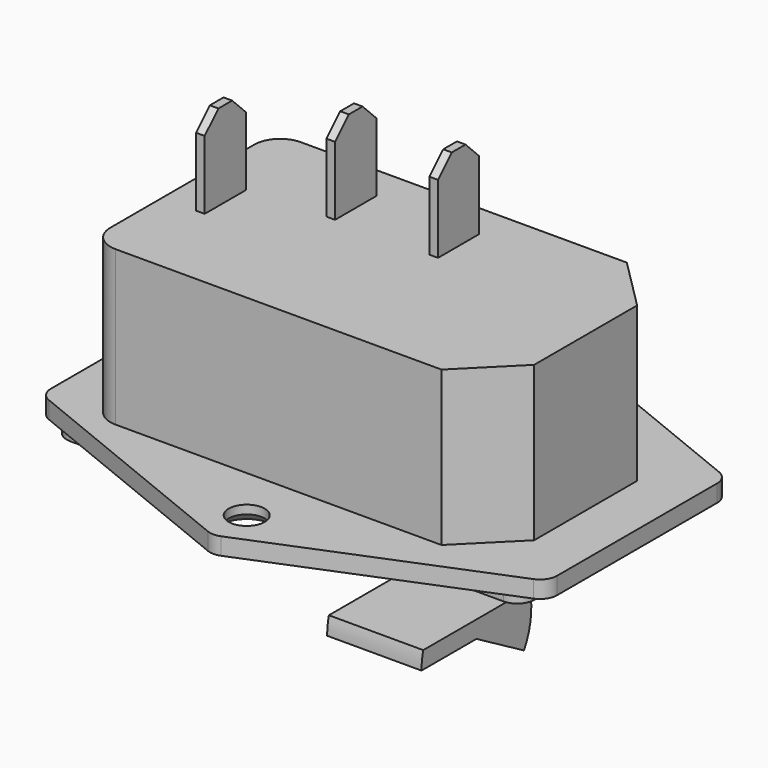
from build123d import *

# Parameters (mm, degrees)
PAD_DEPTH                  = 18
PAD001_DEPTH               = 2
FILLET_R                   = 2
FILLET001_R                = 3
SKETCH002_R                = 2.1
POCKET_DEPTH               = 5
CHAMFER_SIZE               = 1
PAD002_DEPTH               = 1
POCKET001_DEPTH            = 20
PAD003_DEPTH               = 11
SKETCH006_W                = 4
SKETCH006_H                = 2
EXTRUDE_SKETCH006001_DEPTH = 20
CHAMFER001_SIZE            = 1.2
SKETCH007_W                = 1
SKETCH007_H                = 6
EXTRUDE_SKETCH007_DEPTH    = 10
CHAMFER002_SIZE            = 2


with BuildPart() as pocket001:
    # Sketch → Pad (new body)
    with BuildSketch(Plane.XY):
        Polygon((-21.601505, 12.791464), (19.398495, 12.791464), (25.398495, 6.791464), (25.398495, -8.208536), (19.398495, -14.208536), (-21.601505, -14.208536), align=None)
    extrude(amount=PAD_DEPTH)

    # Sketch001 → Pad001 (new body)
    with BuildSketch(Plane(origin=(0, 0, 0), x_dir=(1, 0, 0), z_dir=(0, 0, -1))):
        Polygon((1.898495, 25.708536), (-27.601505, 13.708536), (-27.601505, -12.291464), (1.898495, -24.291464), (31.398495, -12.291464), (31.398495, 13.708536), align=None)
    extrude(amount=PAD001_DEPTH)

    # Fillet
    fillet_edges = [pocket001.edges().sort_by_distance(p)[0] for p in [
        (1.898495, -25.708536, -1),
        (31.398495, -13.708536, -1),
        (-27.601505, -13.708536, -1),
        (-27.601505, 12.291464, -1),
        (1.898495, 24.291464, -1),
        (31.398495, 12.291464, -1),
    ]]
    fillet(fillet_edges, radius=FILLET_R)

    # Fillet001
    fillet001_edges = [pocket001.edges().sort_by_distance(p)[0] for p in [
        (-21.601505, 12.791464, 9),
        (-21.601505, -14.208536, 9),
    ]]
    fillet(fillet001_edges, radius=FILLET001_R)

    # Sketch002 → Pocket (cut)
    with BuildSketch(Plane(origin=(0, 0, -2), x_dir=(1, 0, 0), z_dir=(0, 0, -1))):
        with Locations((1.898495, 20.708536)):
            Circle(SKETCH002_R)
        with Locations((1.898495, -19.291464)):
            Circle(SKETCH002_R)
    extrude(amount=-POCKET_DEPTH, mode=Mode.SUBTRACT)

    # Chamfer
    chamfer_edges = [pocket001.edges().sort_by_distance(p)[0] for p in [
        (-0.201505, -20.708536, -2),
        (-0.201505, 19.291464, -2),
    ]]
    chamfer(chamfer_edges, length=CHAMFER_SIZE)

    # Sketch003 → Pad002 (new body)
    with BuildSketch(Plane(origin=(0, 0, -2), x_dir=(1, 0, 0), z_dir=(0, 0, -1))):
        with BuildLine():
            Line((-23.351505, 14.858536), (27.148495, 14.858536))
            ThreePointArc((29.148495, 12.858536), (28.562708, 14.272749), (27.148495, 14.858536))
            Line((29.148495, 12.858536), (29.148495, -11.441464))
            ThreePointArc((27.148495, -13.441464), (28.562708, -12.855678), (29.148495, -11.441464))
            Line((27.148495, -13.441464), (-23.351505, -13.441464))
            ThreePointArc((-25.351505, -11.441464), (-24.765719, -12.855678), (-23.351505, -13.441464))
            Line((-25.351505, -11.441464), (-25.351505, 12.858536))
            ThreePointArc((-23.351505, 14.858536), (-24.765719, 14.272749), (-25.351505, 12.858536))
        make_face()
    extrude(amount=PAD002_DEPTH)

    # Sketch004 → Pocket001 (cut)
    with BuildSketch(Plane(origin=(0, 0, -3), x_dir=(1, 0, 0), z_dir=(0, 0, -1))):
        Polygon((-16.351505, 12.708536), (-4.351505, 12.708536), (-4.351505, -11.291464), (-16.351505, -11.291464), (-21.351505, -7.291464), (-21.351505, 8.708536), align=None)
    extrude(amount=-POCKET001_DEPTH, mode=Mode.SUBTRACT)


with BuildPart() as obj1:
    # Sketch005 → Pad003 (new body)
    with BuildSketch(Plane.YZ):
        with BuildLine():
            Line((-6.621865, -18.702044), (1.378135, -18.702044))
            Line((1.378135, -18.702044), (8.306338, -22.702044))
            ThreePointArc((8.306338, -22.702044), (9.30485, -19.782407), (9.124102, -16.702044))
            Line((-6.367832, -16.702044), (9.124102, -16.702044))
            ThreePointArc((-6.367832, -16.702044), (-6.558103, -17.694009), (-6.621865, -18.702044))
        make_face()
    extrude(amount=PAD003_DEPTH)


with BuildPart() as obj2:
    # Clone base: copy of obj1
    add(obj1.part)


with BuildPart() as obj2_1:
    # Clone placement: moved
    add(obj2.part.moved(Location((8, -3, 15))))


with BuildPart() as chamfer001:
    # Sketch006 → Extrude_Sketch006001 (new body)
    with BuildSketch(Plane(origin=(0, 0, 17), x_dir=(1, 0, 0), z_dir=(0, 0, -1))):
        with Locations((-10.851505, 7.208536)):
            Rectangle(SKETCH006_W, SKETCH006_H)
        with Locations((-10.851505, -5.791464)):
            Rectangle(SKETCH006_W, SKETCH006_H)
        with Locations((-15.351505, 0.708536)):
            Rectangle(SKETCH006_W, SKETCH006_H)
    extrude(amount=EXTRUDE_SKETCH006001_DEPTH)

    # Chamfer001
    chamfer001_edges = [chamfer001.edges().sort_by_distance(p)[0] for p in [
        (-8.851505, -7.208536, -3),
        (-12.851505, -7.208536, -3),
        (-17.351505, -0.708536, -3),
        (-13.351505, -0.708536, -3),
        (-12.851505, 5.791464, -3),
        (-8.851505, 5.791464, -3),
    ]]
    chamfer(chamfer001_edges, length=CHAMFER001_SIZE)


with BuildPart() as chamfer002:
    # Sketch007 → Extrude_Sketch007 (new body)
    with BuildSketch(Plane.XY.offset(18)):
        with Locations((-17.101505, -0.708536)):
            Rectangle(SKETCH007_W, SKETCH007_H)
        with Locations((4.898495, 5.791464)):
            Rectangle(SKETCH007_W, SKETCH007_H)
        with Locations((-7.101505, 5.791464)):
            Rectangle(SKETCH007_W, SKETCH007_H)
    extrude(amount=EXTRUDE_SKETCH007_DEPTH)

    # Chamfer002
    chamfer002_edges = [chamfer002.edges().sort_by_distance(p)[0] for p in [
        (-7.101505, 8.791464, 28),
        (-7.101505, 2.791464, 28),
        (4.898495, 2.791464, 28),
        (4.898495, 8.791464, 28),
        (-17.101505, 2.291464, 28),
        (-17.101505, -3.708536, 28),
    ]]
    chamfer(chamfer002_edges, length=CHAMFER002_SIZE)


solid = Compound([pocket001.part, obj1.part, obj2_1.part, chamfer001.part, chamfer002.part])
